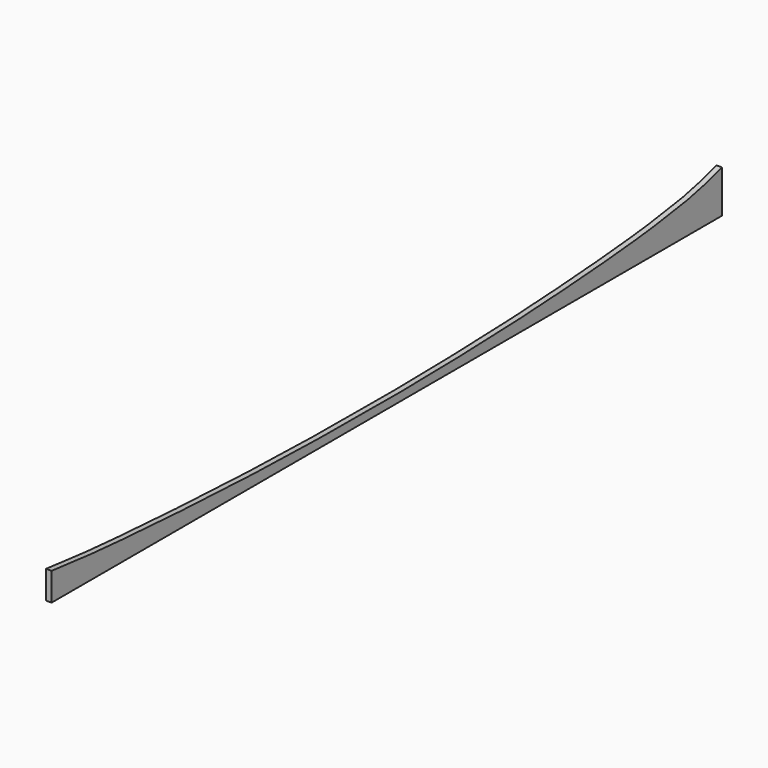
from build123d import *

# Parameters (mm, degrees)
F1_DEPTH = 20


with BuildPart() as f1:
    # F0 (on Right) → F1 (new body)
    with BuildSketch(Plane.YZ):
        with BuildLine():
            Line((-1524, 102), (-1524, 0))
            Line((-1524, 0), (1524, 0))
            Line((1524, 0), (1524, 155))
            add(Edge.make_bspline(
                [(-1524, 102), (-1523.5133752437, 101.8851246477), (-1408.7912269509, 89.1603797095), (-1328.1228770954, 81.1281516651), (-1222.9492078542, 72.3479525491), (-1124.2665744342, 67.4932045799), (-1023.94309645, 59.6764155139), (-924.0349531775, 53.805994689), (-823.9918225167, 49.1036206425), (-724.0143825979, 43.7803509145), (-624.0088625202, 39.7776519647), (-523.9984371896, 37.1107007848), (-424.0073790506, 33.7798389716), (-324.0036932597, 31.7707717723), (-223.9995081657, 31.1373887456), (-124.0016068592, 29.6797012229), (-23.9998974277, 30.1438353394), (76.0011965648, 29.7449502279), (176.0034437181, 30.8764133936), (276.0075220578, 32.7497464803), (375.9981147016, 36.1254124825), (476.0100095315, 38.748896998), (576.0101158316, 42.8806862016), (676.01688664, 47.7313952533), (775.9937905409, 54.1977156997), (876.0403182227, 59.4795593065), (976.0215348454, 67.8963611687), (1076.0108845518, 76.9469689387), (1176.1156760629, 86.3324859418), (1276.010139981, 99.7794335028), (1376.656372399, 114.6659141086), (1465.3163658887, 135.5732382543), (1523.5373474307, 154.8103882913), (1524, 155)],
                knots=[0, 0, 0, 0, 0.0326122587, 0.0652075875, 0.097773832, 0.1303174015, 0.1628715045, 0.195415074, 0.2279497224, 0.2604843708, 0.2930117147, 0.3255333739, 0.3580550332, 0.3905726301, 0.4230877889, 0.4556029477, 0.4881172936, 0.5206316396, 0.5531467984, 0.5856643953, 0.6181860545, 0.6507077138, 0.6832350577, 0.7157697061, 0.7483132755, 0.780856845, 0.8134230895, 0.846003078, 0.8785984068, 0.9112492637, 0.9439697331, 0.9769424993, 1, 1, 1, 1], degree=3))
        make_face()
    extrude(amount=F1_DEPTH)


solid = f1.part
